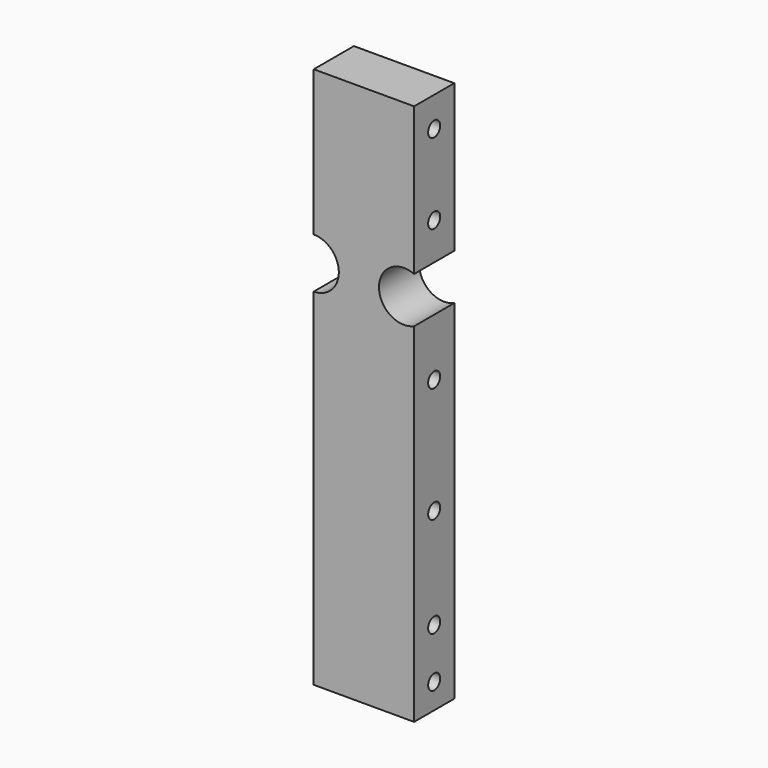
from build123d import *

# Parameters (mm, degrees)
BOX202_W               = 16
BOX202_H               = 6
BOX202_DEPTH           = 2
BOX208_W               = 16
BOX208_H               = 6
BOX208_DEPTH           = 2
BOX206_W               = 16
BOX206_H               = 6
BOX206_DEPTH           = 2
BOX204_W               = 16
BOX204_H               = 6
BOX204_DEPTH           = 2
BOX198_W               = 16
BOX198_H               = 6
BOX198_DEPTH           = 2
BOX209_W               = 16
BOX209_H               = 6
BOX209_DEPTH           = 2
BOX205_W               = 16
BOX205_H               = 6
BOX205_DEPTH           = 2
BOX207_W               = 16
BOX207_H               = 6
BOX207_DEPTH           = 2
BOX200_W               = 16
BOX200_H               = 6
BOX200_DEPTH           = 2
BOX212_W               = 16
BOX212_H               = 6
BOX212_DEPTH           = 2
BOX211_W               = 16
BOX211_H               = 6
BOX211_DEPTH           = 2
BOX203_W               = 16
BOX203_H               = 6
BOX203_DEPTH           = 2
CYLINDER480_R          = 1.5
CYLINDER480_DEPTH      = 50
CYLINDER467_R          = 1.5
CYLINDER467_DEPTH      = 50
CYLINDER483_R          = 1.5
CYLINDER483_DEPTH      = 50
CYLINDER486_R          = 1.5
CYLINDER486_DEPTH      = 50
CYLINDER488_R          = 1.5
CYLINDER488_DEPTH      = 50
CYLINDER482_R          = 1.5
CYLINDER482_DEPTH      = 50
CYLINDER476_R          = 5
CYLINDER476_DEPTH      = 100
CYLINDER475_R          = 5
CYLINDER475_DEPTH      = 100
CYLINDER461_R          = 5
CYLINDER461_DEPTH      = 100
CYLINDER477_R          = 5
CYLINDER477_DEPTH      = 100
CYLINDER481_R          = 5
CYLINDER481_DEPTH      = 100
CYLINDER478_R          = 5
CYLINDER478_DEPTH      = 100
CYLINDER479_R          = 5
CYLINDER479_DEPTH      = 100
CYLINDER474_R          = 5
CYLINDER474_DEPTH      = 100
BOX201_W               = 10
BOX201_H               = 108
BOX201_DEPTH           = 20
CUT591_ROLL_ANGLE      = 90
CUT591_PLACEMENT_ANGLE = 90


with BuildPart() as krychle202:
    # Box202 → Box202 (new body)
    with BuildSketch(Plane(origin=(60, 2, 16), x_dir=(1, 0, 0), z_dir=(0, 0, 1))):
        with Locations((8, 3)):
            Rectangle(BOX202_W, BOX202_H)
    extrude(amount=BOX202_DEPTH)


with BuildPart() as krychle208:
    # Box208 → Box208 (new body)
    with BuildSketch(Plane(origin=(60, -21, 10), x_dir=(1, 0, 0), z_dir=(0, 0, 1))):
        with Locations((8, 3)):
            Rectangle(BOX208_W, BOX208_H)
    extrude(amount=BOX208_DEPTH)


with BuildPart() as krychle206:
    # Box206 → Box206 (new body)
    with BuildSketch(Plane(origin=(60, -21, 16), x_dir=(1, 0, 0), z_dir=(0, 0, 1))):
        with Locations((8, 3)):
            Rectangle(BOX206_W, BOX206_H)
    extrude(amount=BOX206_DEPTH)


with BuildPart() as krychle204:
    # Box204 → Box204 (new body)
    with BuildSketch(Plane(origin=(60, -41, 10), x_dir=(1, 0, 0), z_dir=(0, 0, 1))):
        with Locations((8, 3)):
            Rectangle(BOX204_W, BOX204_H)
    extrude(amount=BOX204_DEPTH)


with BuildPart() as krychle198:
    # Box198 → Box198 (new body)
    with BuildSketch(Plane(origin=(60, -41, 16), x_dir=(1, 0, 0), z_dir=(0, 0, 1))):
        with Locations((8, 3)):
            Rectangle(BOX198_W, BOX198_H)
    extrude(amount=BOX198_DEPTH)


with BuildPart() as krychle209:
    # Box209 → Box209 (new body)
    with BuildSketch(Plane(origin=(60, -51, 10), x_dir=(1, 0, 0), z_dir=(0, 0, 1))):
        with Locations((8, 3)):
            Rectangle(BOX209_W, BOX209_H)
    extrude(amount=BOX209_DEPTH)


with BuildPart() as krychle205:
    # Box205 → Box205 (new body)
    with BuildSketch(Plane(origin=(60, -51, 16), x_dir=(1, 0, 0), z_dir=(0, 0, 1))):
        with Locations((8, 3)):
            Rectangle(BOX205_W, BOX205_H)
    extrude(amount=BOX205_DEPTH)


with BuildPart() as krychle207:
    # Box207 → Box207 (new body)
    with BuildSketch(Plane(origin=(60, 30, 10), x_dir=(1, 0, 0), z_dir=(0, 0, 1))):
        with Locations((8, 3)):
            Rectangle(BOX207_W, BOX207_H)
    extrude(amount=BOX207_DEPTH)


with BuildPart() as krychle200:
    # Box200 → Box200 (new body)
    with BuildSketch(Plane(origin=(60, 46, 10), x_dir=(1, 0, 0), z_dir=(0, 0, 1))):
        with Locations((8, 3)):
            Rectangle(BOX200_W, BOX200_H)
    extrude(amount=BOX200_DEPTH)


with BuildPart() as krychle212:
    # Box212 → Box212 (new body)
    with BuildSketch(Plane(origin=(60, 30, 16), x_dir=(1, 0, 0), z_dir=(0, 0, 1))):
        with Locations((8, 3)):
            Rectangle(BOX212_W, BOX212_H)
    extrude(amount=BOX212_DEPTH)


with BuildPart() as krychle211:
    # Box211 → Box211 (new body)
    with BuildSketch(Plane(origin=(60, 46, 16), x_dir=(1, 0, 0), z_dir=(0, 0, 1))):
        with Locations((8, 3)):
            Rectangle(BOX211_W, BOX211_H)
    extrude(amount=BOX211_DEPTH)


with BuildPart() as compound592:
    # Box203 → Box203 (new body)
    with BuildSketch(Plane(origin=(60, 2, 10), x_dir=(1, 0, 0), z_dir=(0, 0, 1))):
        with Locations((8, 3)):
            Rectangle(BOX203_W, BOX203_H)
    extrude(amount=BOX203_DEPTH)

    # Compound592: union Krychle202, Krychle208, Krychle206, Krychle204, Krychle198, Krychle209, Krychle205, Krychle207, Krychle200, Krychle212, Krychle211
    add(krychle202.part)
    add(krychle208.part)
    add(krychle206.part)
    add(krychle204.part)
    add(krychle198.part)
    add(krychle209.part)
    add(krychle205.part)
    add(krychle207.part)
    add(krychle200.part)
    add(krychle212.part)
    add(krychle211.part)


with BuildPart() as compound592_1:
    # Compound592 placement: moved
    add(compound592.part.moved(Location((39, 24, 3))))


with BuildPart() as obj1:
    # Cylinder480 → Cylinder480 (new body)
    with BuildSketch(Plane(origin=(63, -18, -12), x_dir=(1, 0, 0), z_dir=(0, 0, 1))):
        Circle(CYLINDER480_R)
    extrude(amount=CYLINDER480_DEPTH)


with BuildPart() as obj2:
    # Cylinder467 → Cylinder467 (new body)
    with BuildSketch(Plane(origin=(63, -38, -12), x_dir=(1, 0, 0), z_dir=(0, 0, 1))):
        Circle(CYLINDER467_R)
    extrude(amount=CYLINDER467_DEPTH)


with BuildPart() as obj3:
    # Cylinder483 → Cylinder483 (new body)
    with BuildSketch(Plane(origin=(63, -48, -12), x_dir=(1, 0, 0), z_dir=(0, 0, 1))):
        Circle(CYLINDER483_R)
    extrude(amount=CYLINDER483_DEPTH)


with BuildPart() as obj4:
    # Cylinder486 → Cylinder486 (new body)
    with BuildSketch(Plane(origin=(63, 33, -12), x_dir=(1, 0, 0), z_dir=(0, 0, 1))):
        Circle(CYLINDER486_R)
    extrude(amount=CYLINDER486_DEPTH)


with BuildPart() as obj5:
    # Cylinder488 → Cylinder488 (new body)
    with BuildSketch(Plane(origin=(63, 49, -12), x_dir=(1, 0, 0), z_dir=(0, 0, 1))):
        Circle(CYLINDER488_R)
    extrude(amount=CYLINDER488_DEPTH)


with BuildPart() as compound593:
    # Cylinder482 → Cylinder482 (new body)
    with BuildSketch(Plane(origin=(63, 5, -12), x_dir=(1, 0, 0), z_dir=(0, 0, 1))):
        Circle(CYLINDER482_R)
    extrude(amount=CYLINDER482_DEPTH)

    # Compound593: union obj1, obj2, obj3, obj4, obj5
    add(obj1.part)
    add(obj2.part)
    add(obj3.part)
    add(obj4.part)
    add(obj5.part)


with BuildPart() as compound593_1:
    # Compound593 placement: moved
    add(compound593.part.moved(Location((39, 24, 0))))


with BuildPart() as obj6:
    # Cylinder476 → Cylinder476 (new body)
    with BuildSketch(Plane(origin=(24, -51, 25), x_dir=(0, 0, -1), z_dir=(1, 0, 0))):
        Circle(CYLINDER476_R)
    extrude(amount=CYLINDER476_DEPTH)


with BuildPart() as obj7:
    # Cylinder475 → Cylinder475 (new body)
    with BuildSketch(Plane(origin=(24, 36, 34), x_dir=(0, 0, -1), z_dir=(1, 0, 0))):
        Circle(CYLINDER475_R)
    extrude(amount=CYLINDER475_DEPTH)


with BuildPart() as obj8:
    # Cylinder461 → Cylinder461 (new body)
    with BuildSketch(Plane(origin=(24, -36, 34), x_dir=(0, 0, -1), z_dir=(1, 0, 0))):
        Circle(CYLINDER461_R)
    extrude(amount=CYLINDER461_DEPTH)


with BuildPart() as obj9:
    # Cylinder477 → Cylinder477 (new body)
    with BuildSketch(Plane(origin=(24, -23, -5), x_dir=(0, 0, -1), z_dir=(1, 0, 0))):
        Circle(CYLINDER477_R)
    extrude(amount=CYLINDER477_DEPTH)


with BuildPart() as obj10:
    # Cylinder481 → Cylinder481 (new body)
    with BuildSketch(Plane(origin=(24, 51, 7), x_dir=(0, 0, -1), z_dir=(1, 0, 0))):
        Circle(CYLINDER481_R)
    extrude(amount=CYLINDER481_DEPTH)


with BuildPart() as obj11:
    # Cylinder478 → Cylinder478 (new body)
    with BuildSketch(Plane(origin=(24, 23, -5), x_dir=(0, 0, -1), z_dir=(1, 0, 0))):
        Circle(CYLINDER478_R)
    extrude(amount=CYLINDER478_DEPTH)


with BuildPart() as obj12:
    # Cylinder479 → Cylinder479 (new body)
    with BuildSketch(Plane(origin=(24, -51, 7), x_dir=(0, 0, -1), z_dir=(1, 0, 0))):
        Circle(CYLINDER479_R)
    extrude(amount=CYLINDER479_DEPTH)


with BuildPart() as compound596:
    # Cylinder474 → Cylinder474 (new body)
    with BuildSketch(Plane(origin=(24, 51, 25), x_dir=(0, 0, -1), z_dir=(1, 0, 0))):
        Circle(CYLINDER474_R)
    extrude(amount=CYLINDER474_DEPTH)

    # Compound596: union obj6, obj7, obj8, obj9, obj10, obj11, obj12
    add(obj6.part)
    add(obj7.part)
    add(obj8.part)
    add(obj9.part)
    add(obj10.part)
    add(obj11.part)
    add(obj12.part)


with BuildPart() as compound596_1:
    # Compound596 placement: moved
    add(compound596.part.moved(Location((24, -6, 0))))


with BuildPart() as obj13:
    # Box201 → Box201 (new body)
    with BuildSketch(Plane(origin=(97, -29, 7), x_dir=(1, 0, 0), z_dir=(0, 0, 1))):
        with Locations((5, 54)):
            Rectangle(BOX201_W, BOX201_H)
    extrude(amount=BOX201_DEPTH)

    # Cut590: cut Compound596
    add(compound596_1.part, mode=Mode.SUBTRACT)

    # Cut589: cut Compound593
    add(compound593_1.part, mode=Mode.SUBTRACT)

    # Cut591: cut Compound592
    add(compound592_1.part, mode=Mode.SUBTRACT)


with BuildPart() as obj13_1:
    # Cut591 roll: moved
    add(obj13.part.rotate(Axis((0, 0, 0), (1, 0, 0)), CUT591_ROLL_ANGLE))


with BuildPart() as obj13_2:
    # Cut591 placement: moved
    add(obj13_1.part.moved(Location((-17, -60, -56))).rotate(Axis((-17, -60, -56), (0, 0, 1)), CUT591_PLACEMENT_ANGLE))


solid = obj13_2.part
